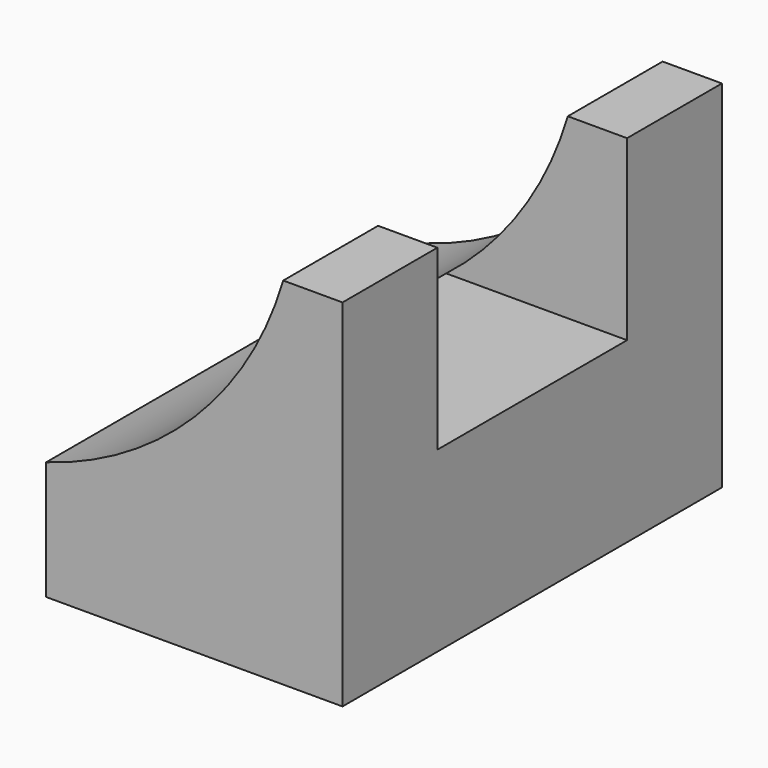
from build123d import *

# Parameters (mm, degrees)
F1_DEPTH = 101.6
F2_W     = 101.6
F2_H     = 76.2
F3_DEPTH = 127.001


with BuildPart() as f1:
    # F0 (on Front) → F1 (new body, symmetric)
    with BuildSketch(Plane.XZ):
        with BuildLine():
            Line((0, 50.8), (0, 0))
            Line((0, 0), (127, 0))
            Line((127, 0), (127, 152.4))
            Line((127, 152.4), (101.6, 152.4))
            ThreePointArc((101.6, 152.4), (63.692052, 88.707948), (0, 50.8))
        make_face()
    extrude(amount=F1_DEPTH, both=True)

    # F2 (on face) → F3 (cut, through all)
    with BuildSketch(Plane.YZ.offset(127)):
        with Locations((0, 114.3)):
            Rectangle(F2_W, F2_H)
    extrude(amount=-F3_DEPTH, mode=Mode.SUBTRACT)


solid = f1.part
